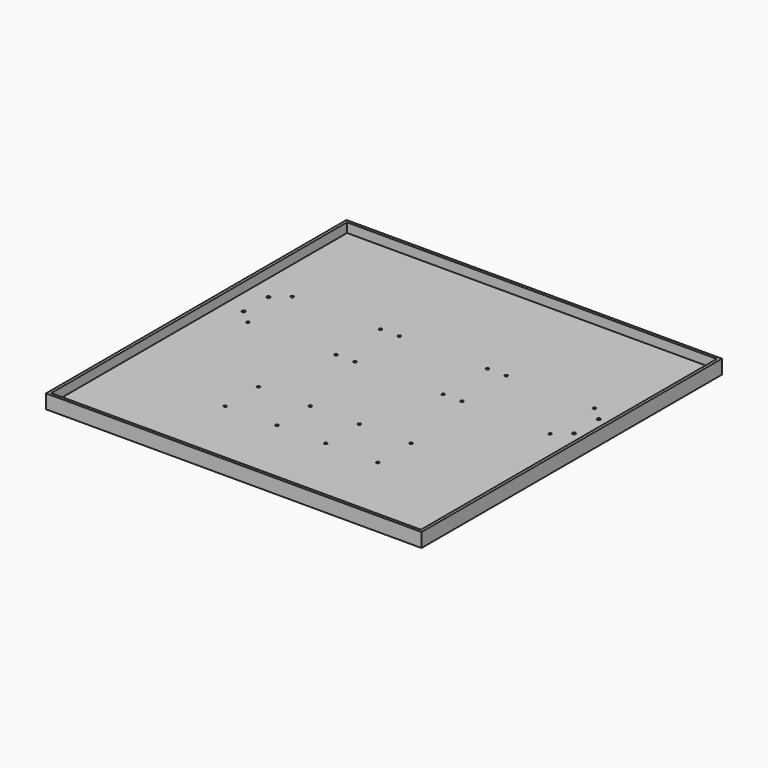
from build123d import *

# Parameters (mm, degrees)
F0_W      = 400
F0_H      = 400
F1_DEPTH  = 5
F2_R      = 1.5
F2_R_2    = 1.75
F3_DEPTH  = 5.001
F4_R      = 1.5
F5_DEPTH  = 5.001
F6_R      = 1.5
F7_DEPTH  = 5.001
F9_W      = 3
F9_H      = 394
F10_DEPTH = 10
F11_W     = 30
F11_H     = 15
F12_DEPTH = 3
F13_W     = 30
F13_H     = 15
F14_DEPTH = 3


with BuildPart() as f1:
    # F0 (on Top) → F1 (new body)
    with BuildSketch(Plane.XY):
        with Locations((2.6232805103, 125.1846492136)):
            Rectangle(F0_W, F0_H)
    extrude(amount=F1_DEPTH)

    # F2 (on face) → F3 (cut, through all)
    with BuildSketch(Plane.XY.offset(5)):
        with Locations((-158.3767194897, 145.1846492136)):
            Circle(F2_R)
        with Locations((-64.3767194897, 145.1846492136)):
            Circle(F2_R)
        with Locations((-44.3767194897, 145.1846492136)):
            Circle(F2_R)
        with Locations((49.6232805103, 145.1846492136)):
            Circle(F2_R)
        with Locations((69.6232805103, 145.1846492136)):
            Circle(F2_R)
        with Locations((163.6232805103, 145.1846492136)):
            Circle(F2_R)
        with Locations((-44.3767194897, 204.1846492136)):
            Circle(F2_R)
        with Locations((-158.3767194897, 204.1846492136)):
            Circle(F2_R)
        with Locations((49.6232805103, 204.1846492136)):
            Circle(F2_R)
        with Locations((69.6232805103, 204.1846492136)):
            Circle(F2_R)
        with Locations((163.6232805103, 204.1846492136)):
            Circle(F2_R)
        with Locations((-64.3767194897, 204.1846492136)):
            Circle(F2_R)
        with Locations((-173.3767194897, 158.1846492136)):
            Circle(F2_R_2)
        with Locations((-173.3767194897, 191.1846492136)):
            Circle(F2_R_2)
        with Locations((178.6232805103, 158.1846492136)):
            Circle(F2_R_2)
        with Locations((178.6232805103, 191.1846492136)):
            Circle(F2_R_2)
    extrude(amount=-F3_DEPTH, mode=Mode.SUBTRACT)

    # F4 (on face) → F5 (cut, through all)
    with BuildSketch(Plane.XY.offset(5)):
        with Locations((-23.3767194897, 15.1846492136)):
            Circle(F4_R)
        with Locations((-23.3767194897, 59.6346492136)):
            Circle(F4_R)
        with Locations((28.6232805103, 15.1846492136)):
            Circle(F4_R)
        with Locations((28.6232805103, 59.6346492136)):
            Circle(F4_R)
    extrude(amount=-F5_DEPTH, mode=Mode.SUBTRACT)

    # F6 (on face) → F7 (cut, through all)
    with BuildSketch(Plane.XY.offset(5)):
        with Locations((-78.6517194897, 15.1846492136)):
            Circle(F6_R)
        with Locations((-78.6517194897, 59.6346492136)):
            Circle(F6_R)
        with Locations((83.8982805103, 15.1846492136)):
            Circle(F6_R)
        with Locations((83.8982805103, 59.6346492136)):
            Circle(F6_R)
    extrude(amount=-F7_DEPTH, mode=Mode.SUBTRACT)

    # F9 (on face) → F10 (join)
    with BuildSketch(Plane.XY.offset(5)):
        Polygon((-197.3767194897, -71.8153507864), (-197.3767194897, -74.8153507864), (202.6232805103, -74.8153507864), (202.6232805103, -71.8153507864), (199.6232805103, -71.8153507864), (-194.3767194897, -71.8153507864), align=None)
        Polygon((-197.3767194897, 325.1846492136), (-197.3767194897, -71.8153507864), (-194.3767194897, -71.8153507864), (-194.3767194897, 322.1846492136), (-194.3767194897, 325.1846492136), align=None)
        with Locations((201.1232805103, 125.1846492136)):
            Rectangle(F9_W, F9_H)
        Polygon((199.6232805103, 322.1846492136), (202.6232805103, 322.1846492136), (202.6232805103, 325.1846492136), (-194.3767194897, 325.1846492136), (-194.3767194897, 322.1846492136), align=None)
    extrude(amount=F10_DEPTH)

    # F11 (on face) → F12 (cut, through all)
    with BuildSketch(Plane.XZ.offset(74.8153507864)):
        with Locations((0, 22.5)):
            Rectangle(F11_W, F11_H)
    extrude(amount=-F12_DEPTH, mode=Mode.SUBTRACT)

    # F13 (on face) → F14 (cut, through all)
    with BuildSketch(Plane(origin=(0, 325.1846492136, 0), x_dir=(-1, 0, 0), z_dir=(0, 1, 0))):
        with Locations((0, 22.5)):
            Rectangle(F13_W, F13_H)
    extrude(amount=-F14_DEPTH, mode=Mode.SUBTRACT)


solid = f1.part
